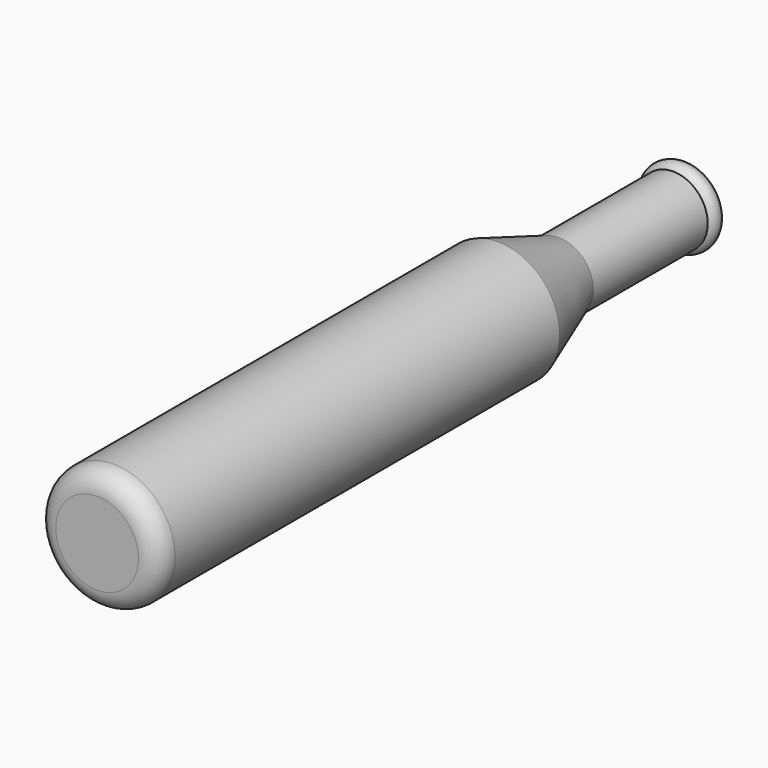
from build123d import *

# Parameters (mm, degrees)
F2_R = 1.9622727835


with BuildPart() as f1:
    # F0 (on Top) → F1 (revolve)
    with BuildSketch(Plane.XY):
        Polygon((-21.0659306824, -27.7770664543), (-21.0659306824, 15.4031372249), (-21.0659306824, 28.1031372249), (-24.4244831643, 28.1031372249), (-27.0358305424, 20.7487531006), (-27.0358305424, -27.7770664543), align=None)
        Polygon((-24.4244831643, 28.1031372249), (-21.0659306824, 28.1031372249), (-21.0659306824, 43.5661226511), (-24.4244831643, 43.5661226511), (-24.4244831643, 41.9496893883), align=None)
        with BuildLine():
            ThreePointArc((-24.4244831643, 43.5661226511), (-24.9002133782, 42.7579060197), (-24.4244831643, 41.9496893883))
            Line((-24.4244831643, 41.9496893883), (-24.4244831643, 43.5661226511))
        make_face()
    revolve(axis=Axis((-21.0659306824, -6.1869646147, 0), (0, -1, 0)))

    # F2
    f2_edges = [f1.edges().sort_by_distance(p)[0] for p in [
        (-15.096031, -27.777066, 0),
    ]]
    fillet(f2_edges, radius=F2_R)


solid = f1.part
